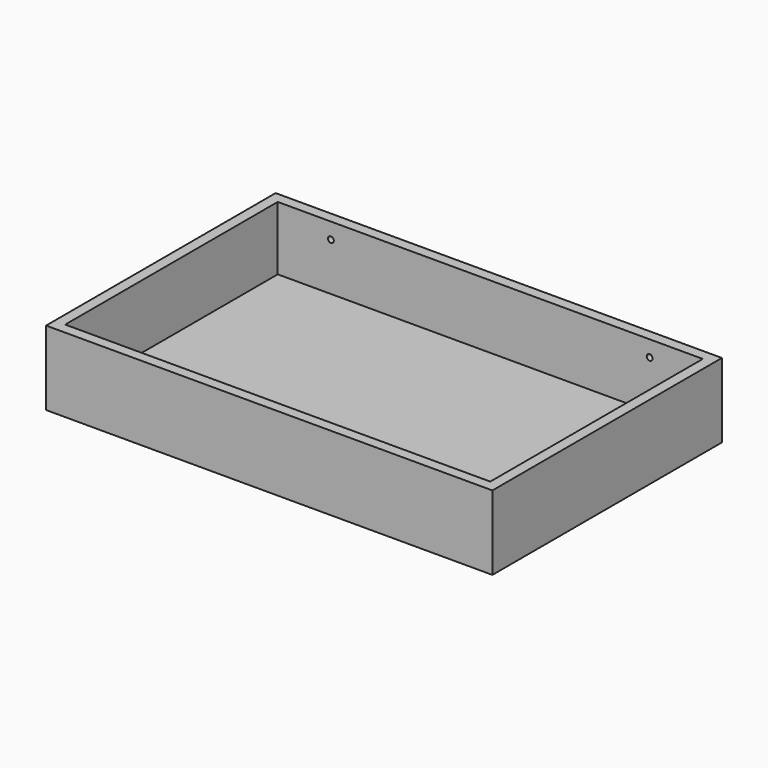
from build123d import *

# Parameters (mm, degrees)
F0_W      = 400
F0_H      = 250
F1_DEPTH  = 10
F2_W      = 250
F2_H      = 70
F3_DEPTH  = 10
F4_W      = 420
F4_H      = 70
F5_DEPTH  = 10
F6_W      = 250
F6_H      = 70
F7_DEPTH  = 10
F8_W      = 420
F8_H      = 70
F9_DEPTH  = 10
F10_D     = 5.5
F10_DEPTH = 10.001
F11_D     = 5.5
F11_DEPTH = 10.001


with BuildPart() as f1:
    # F0 (on Top) → F1 (new body)
    with BuildSketch(Plane.XY):
        Rectangle(F0_W, F0_H)
    extrude(amount=F1_DEPTH)

    # F2 (on face) → F3 (join)
    with BuildSketch(Plane.YZ.offset(200)):
        with Locations((0, 35)):
            Rectangle(F2_W, F2_H)
    extrude(amount=F3_DEPTH)

    # F4 (on face) → F5 (join)
    with BuildSketch(Plane(origin=(0, 125, 0), x_dir=(-1, 0, 0), z_dir=(0, 1, 0))):
        with Locations((0, 35)):
            Rectangle(F4_W, F4_H)
    extrude(amount=F5_DEPTH)

    # F6 (on face) → F7 (join)
    with BuildSketch(Plane(origin=(-200, 0, 0), x_dir=(0, -1, 0), z_dir=(-1, 0, 0))):
        with Locations((0, 35)):
            Rectangle(F6_W, F6_H)
    extrude(amount=F7_DEPTH)

    # F8 (on face) → F9 (join)
    with BuildSketch(Plane.XZ.offset(125)):
        with Locations((0, 35)):
            Rectangle(F8_W, F8_H)
    extrude(amount=F9_DEPTH)

    # F10 (through all, one way)
    with BuildSketch(Plane(origin=(0, 125, 0), x_dir=(-1, 0, 0), z_dir=(0, -1, 0))):
        with Locations((-150, -55)):
            Circle(F10_D / 2)
    extrude(amount=-F10_DEPTH, mode=Mode.SUBTRACT)

    # F11 (through all, one way)
    with BuildSketch(Plane(origin=(0, 125, 0), x_dir=(-1, 0, 0), z_dir=(0, -1, 0))):
        with Locations((150, -55)):
            Circle(F11_D / 2)
    extrude(amount=-F11_DEPTH, mode=Mode.SUBTRACT)


solid = f1.part
